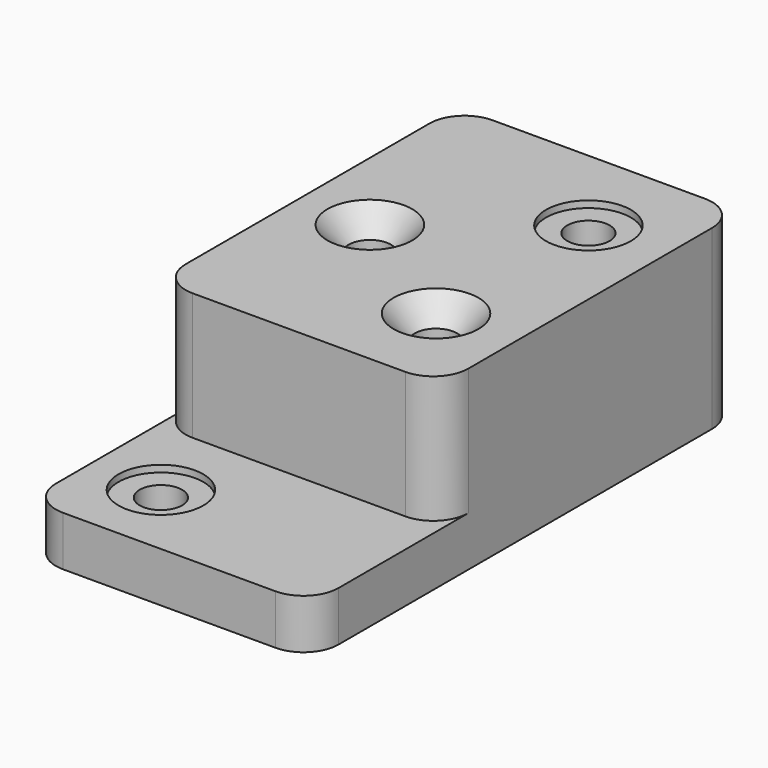
from build123d import *

# Parameters (mm, degrees)
F0_W           = 127
F0_H           = 168.402
F1_DEPTH       = 79.502
F0_H_2         = 72.898
F2_DEPTH       = 22.352
F4_D           = 19.05
F4_START       = 57.15
F4_CBORE_D     = 38.1
F4_CBORE_DEPTH = 3.048
F5_D           = 19.05
F5_CSINK_D     = 38.1
F5_CSINK_ANGLE = 82
F6_R           = 15.748


with BuildPart() as f1:
    # F0 (on Top) → F1 (new body)
    with BuildSketch(Plane.XY):
        with Locations((0, 84.201)):
            Rectangle(F0_W, F0_H)
    extrude(amount=F1_DEPTH)

    # F0 (on Top) → F2 (join)
    with BuildSketch(Plane.XY):
        with Locations((0, -36.449)):
            Rectangle(F0_W, F0_H_2)
    extrude(amount=F2_DEPTH)

    # F4 (through all)
    # its depths count from where the whole tool has entered the part; down to there all is cleared
    with Locations(Plane.XY.offset(79.502)):
        with Locations((28.448, 127, 0), (-31.75, -37.846, -F4_START)):
            CounterBoreHole(F4_D / 2, F4_CBORE_D / 2, F4_CBORE_DEPTH)

    # F5 (through all)
    with Locations(Plane.XY.offset(79.502)):
        with Locations((-31.75, 79.502), (28.448, 41.402)):
            CounterSinkHole(F5_D / 2, F5_CSINK_D / 2, counter_sink_angle=F5_CSINK_ANGLE)

    # F6
    f6_edges = [f1.edges().sort_by_distance(p)[0] for p in [
        (63.5, -72.898, 11.176),
        (-63.5, -72.898, 11.176),
        (63.5, 0, 50.927),
        (-63.5, 0, 50.927),
        (63.5, 168.402, 39.751),
        (-63.5, 168.402, 39.751),
    ]]
    fillet(f6_edges, radius=F6_R)


solid = f1.part
